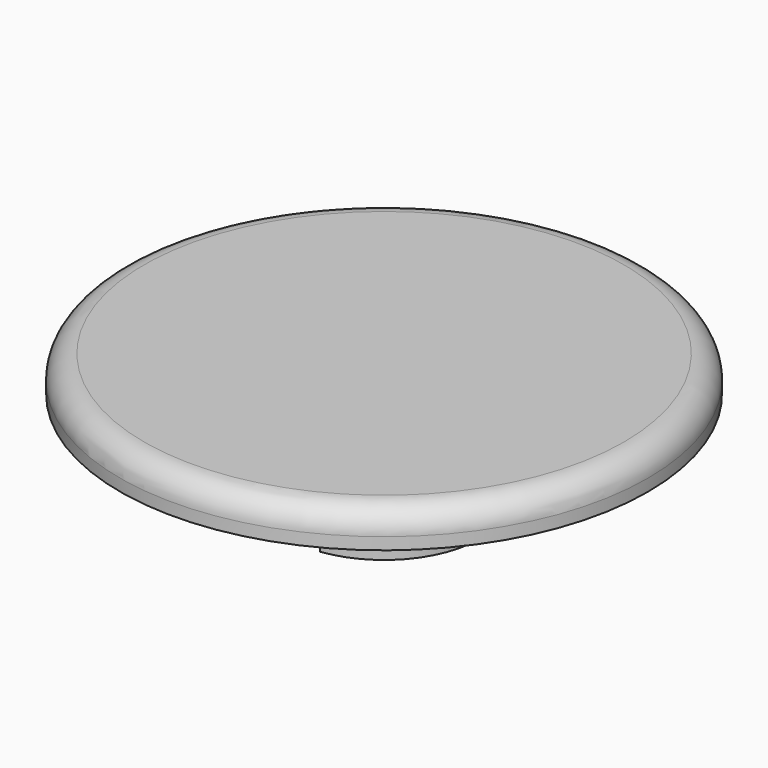
from build123d import *

# Parameters (mm, degrees)
F3_DEPTH = 3
F4_R     = 1


with BuildPart() as f1:
    # F0 (on Front) → F1 (revolve)
    with BuildSketch(Plane.XZ):
        Polygon((0, 5.5), (0, 0), (4, 0), (4, 3), (5, 3), (5, 4), (11, 4), (11, 5.5), align=None)
    revolve(axis=Axis((0, 0, 5.302473), (0, 0, 1)))

    # F2 (on face) → F3 (cut, through all)
    with BuildSketch(Plane(origin=(0, 0, 0), x_dir=(1, 0, 0), z_dir=(0, 0, -1))):
        Polygon((-0.5, -6.403249), (0.5, -6.403249), (0.5, -0.5), (5.621079, -0.5), (5.621079, 0.5), (0.5, 0.5), (0.5, 6.403249), (-0.5, 6.403249), (-0.5, 0.5), (-5.621079, 0.5), (-5.621079, -0.5), (-0.5, -0.5), align=None)
    extrude(amount=-F3_DEPTH, mode=Mode.SUBTRACT)

    # F4
    f4_edges = [f1.edges().sort_by_distance(p)[0] for p in [
        (-11, 0, 5.5),
    ]]
    fillet(f4_edges, radius=F4_R)


solid = f1.part
